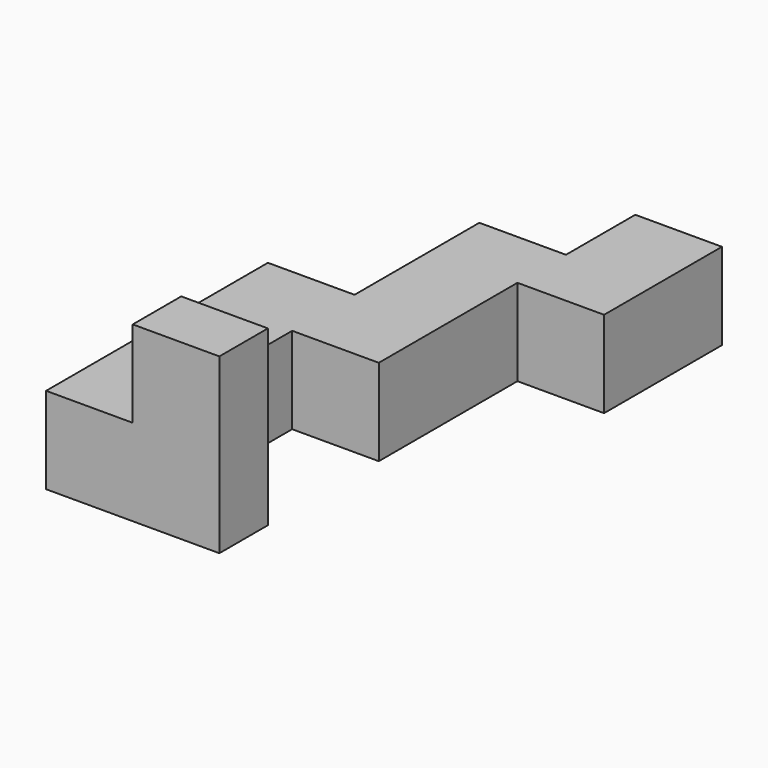
from build123d import *

# Parameters (mm, degrees)
F0_W      = 43.18
F0_H      = 25.4
F1_DEPTH  = 25.4
F2_W      = 17.78
F2_H      = 25.4
F3_DEPTH  = 25.4
F4_W      = 25.4
F4_H      = 25.4
F5_DEPTH  = 50.8
F6_W      = 22.86
F6_H      = 25.4
F7_DEPTH  = 25.4
F8_W      = 25.4
F8_H      = 25.4
F9_DEPTH  = 58.42
F10_W     = 17.78
F10_H     = 25.4
F11_DEPTH = 25.4
F12_W     = 25.4
F12_H     = 17.78
F13_DEPTH = 25.4


with BuildPart() as f1:
    # F0 (on Right) → F1 (new body)
    with BuildSketch(Plane.YZ):
        with Locations((36.3900898956, -36.7231099647)):
            Rectangle(F0_W, F0_H)
    extrude(amount=F1_DEPTH)

    # F2 (on face) → F3 (join)
    with BuildSketch(Plane(origin=(0, 0, 0), x_dir=(0, -1, 0), z_dir=(-1, 0, 0))):
        with Locations((-23.6900898956, -36.7231099647)):
            Rectangle(F2_W, F2_H)
    extrude(amount=F3_DEPTH)

    # F4 (on face) → F5 (join)
    with BuildSketch(Plane.XZ.offset(-14.8000898956)):
        with Locations((-12.7, -36.7231099647)):
            Rectangle(F4_W, F4_H)
    extrude(amount=F5_DEPTH)

    # F6 (on face) → F7 (join)
    with BuildSketch(Plane(origin=(-25.4, 0, 0), x_dir=(0, -1, 0), z_dir=(-1, 0, 0))):
        with Locations((24.5699101044, -36.7231099647)):
            Rectangle(F6_W, F6_H)
    extrude(amount=F7_DEPTH)

    # F8 (on face) → F9 (join)
    with BuildSketch(Plane.XZ.offset(35.9999101044)):
        with Locations((-38.1, -36.7231099647)):
            Rectangle(F8_W, F8_H)
    extrude(amount=F9_DEPTH)

    # F10 (on face) → F11 (join)
    with BuildSketch(Plane.YZ.offset(-25.4)):
        with Locations((-85.5299101044, -36.7231099647)):
            Rectangle(F10_W, F10_H)
    extrude(amount=F11_DEPTH)

    # F12 (on face) → F13 (join)
    with BuildSketch(Plane.XY.offset(-24.0231099647)):
        with Locations((-12.7, -85.5299101044)):
            Rectangle(F12_W, F12_H)
    extrude(amount=F13_DEPTH)


solid = f1.part
